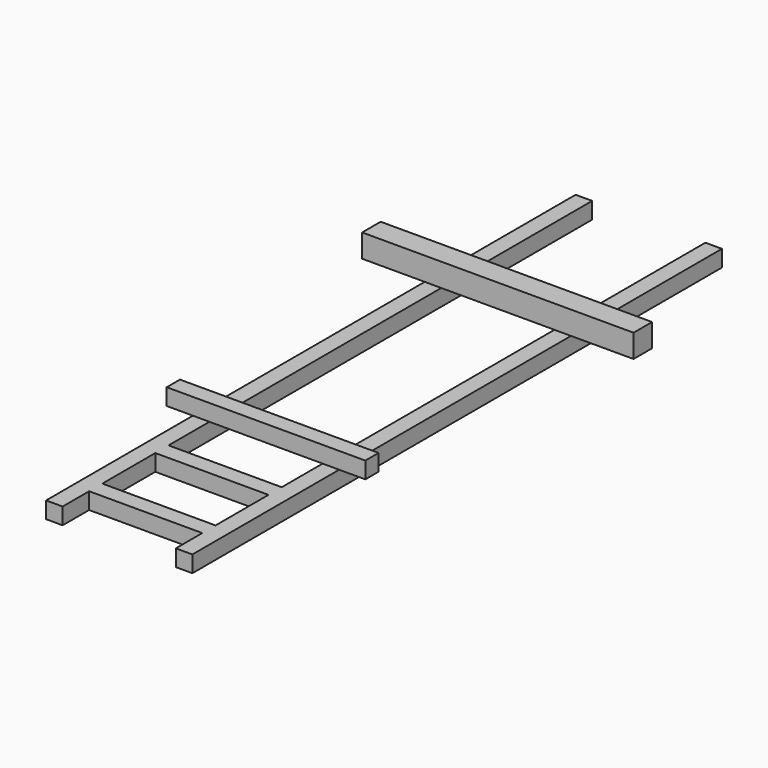
from build123d import *

# Parameters (mm, degrees)
F0_W     = 8.6868
F0_H     = 1.27
F1_DEPTH = 1.27
F2_W     = 20.828
F2_H     = 1.778
F3_DEPTH = 1.778
F4_W     = 15.24
F4_H     = 1.27
F5_DEPTH = 1.27


with BuildPart() as f1:
    # F0 (on Top) → F1 (new body)
    with BuildSketch(Plane.XY):
        Polygon((-4.3434, 6.983239), (-5.6134, 6.983239), (-5.6134, -43.816761), (-4.3434, -43.816761), (-4.3434, -41.276761), (-4.3434, -40.006761), (-4.3434, -34.926761), (-4.3434, -33.656761), align=None)
        with Locations((0, -34.291761)):
            Rectangle(F0_W, F0_H)
        Polygon((4.3434, 6.983239), (4.3434, -33.656761), (4.3434, -34.926761), (4.3434, -40.006761), (4.3434, -41.276761), (4.3434, -43.816761), (5.6134, -43.816761), (5.6134, 6.983239), align=None)
        with Locations((0, -40.641761)):
            Rectangle(F0_W, F0_H)
    extrude(amount=F1_DEPTH)

    # F2 (on face) → F3 (join)
    with BuildSketch(Plane.XY.offset(1.27)):
        with Locations((0, -6.605761)):
            Rectangle(F2_W, F2_H)
    extrude(amount=F3_DEPTH)

    # F4 (on face) → F5 (join)
    with BuildSketch(Plane.XY.offset(1.27)):
        with Locations((0, -29.099032)):
            Rectangle(F4_W, F4_H)
    extrude(amount=F5_DEPTH)


solid = f1.part
